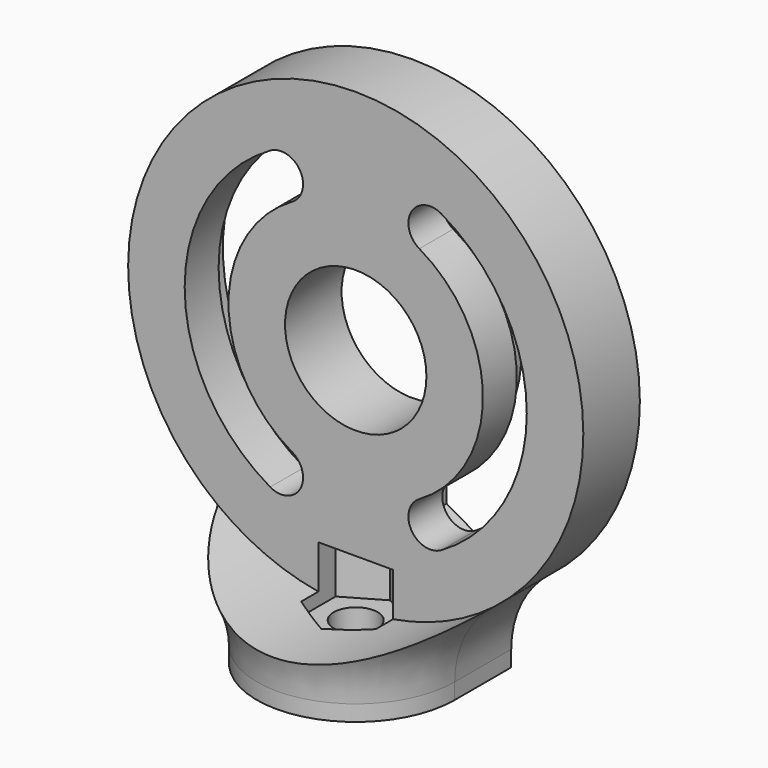
from build123d import *

# Parameters (mm, degrees)
SKETCH001_AS_DRAWN_R                 = 5
EXTRUDE001_DEPTH                     = 5
EXTRUDE001_ONTO_SKETCH001_ROLL_ANGLE = 90
FILLET_R                             = 7
POCKET_DEPTH                         = 2
REVOLVE_ANGLE                        = 180
REVOLVE_ONTO_SKETCH003_ROLL_ANGLE    = 90
POCKET001_DEPTH                      = 4
SKETCH005_R                          = 1.55
POCKET002_DEPTH                      = 2.693383
POCKET003_DEPTH                      = 9.758576


with BuildPart() as pocket:
    # Sketch001 as drawn → Extrude001 (new)
    with BuildSketch(Plane.XY):
        with BuildLine():
            Line((-7, 0), (7, 0))
            Line((7, 0), (7, 5))
            ThreePointArc((7, 5), (0, 35.598621), (-7, 5))
            Line((-7, 0), (-7, 5))
        make_face()
        with Locations((0, 19.498621)):
            Circle(SKETCH001_AS_DRAWN_R, mode=Mode.SUBTRACT)
        with BuildLine():
            ThreePointArc((-6.05, 29.977528), (-12.1, 19.498621), (-6.05, 9.019713))
            ThreePointArc((-6.05, 9.019713), (-3.932661, 9.587053), (-4.5, 11.704392))
            ThreePointArc((-4.5, 27.292849), (-9, 19.498621), (-4.5, 11.704392))
            ThreePointArc((-4.5, 27.292849), (-3.932661, 29.410189), (-6.05, 29.977528))
        make_face(mode=Mode.SUBTRACT)
        with BuildLine():
            ThreePointArc((4.5, 11.704392), (9, 19.498621), (4.5, 27.292849))
            ThreePointArc((6.05, 29.977528), (3.932661, 29.410189), (4.5, 27.292849))
            ThreePointArc((6.05, 9.019713), (12.1, 19.498621), (6.05, 29.977528))
            ThreePointArc((4.5, 11.704392), (3.932661, 9.587053), (6.05, 9.019713))
        make_face(mode=Mode.SUBTRACT)
    extrude(amount=-EXTRUDE001_DEPTH)


with BuildPart() as pocket_1:
    # Extrude001 onto Sketch001 roll: moved
    add(pocket.part.rotate(Axis((0, 0, 0), (1, 0, 0)), EXTRUDE001_ONTO_SKETCH001_ROLL_ANGLE))


with BuildPart() as pocket_2:
    # Extrude001 onto Sketch001 placement: moved
    add(pocket_1.part)

    # Fillet
    fillet_edges = [pocket_2.edges().sort_by_distance(p)[0] for p in [
        (7, 2.5, 5),
        (-7, 2.5, 5),
    ]]
    fillet(fillet_edges, radius=FILLET_R)

    # Sketch002 → Pocket (cut)
    with BuildSketch(Plane(origin=(0, 5, 0), x_dir=(-1, 0, 0), z_dir=(0, 1, 0))):
        with BuildLine():
            ThreePointArc((-3.85, 26.167016), (-7.7, 19.498621), (-3.85, 12.830225))
            Line((-3.85, 12.830225), (-2.425, 12.007501))
            Line((-2.425, 12.007501), (-2.425, 10.362053))
            Line((-2.425, 10.362053), (-2.425, 8.716604))
            Line((-2.425, 8.716604), (-3.85, 7.89388))
            Line((-3.85, 7.89388), (-5.275, 7.071156))
            Line((-5.275, 7.071156), (-6.7, 7.89388))
            ThreePointArc((-6.7, 31.103361), (-13.4, 19.498621), (-6.7, 7.89388))
            Line((-6.7, 31.103361), (-5.275, 31.926085))
            Line((-5.275, 31.926085), (-3.85, 31.103361))
            Line((-3.85, 31.103361), (-2.425, 30.280637))
            Line((-2.425, 30.280637), (-2.425, 28.635189))
            Line((-2.425, 28.635189), (-2.425, 26.98974))
            Line((-2.425, 26.98974), (-3.85, 26.167016))
        make_face()
        with BuildLine():
            ThreePointArc((3.85, 12.830225), (7.7, 19.498621), (3.85, 26.167016))
            Line((3.85, 26.167016), (2.424998, 26.989738))
            Line((2.424998, 26.989738), (2.425, 28.635187))
            Line((2.425, 28.635187), (2.425002, 30.280636))
            Line((2.425002, 30.280636), (3.850002, 31.103362))
            Line((3.850002, 31.103362), (5.275001, 31.926088))
            Line((5.275001, 31.926088), (6.7, 31.103361))
            ThreePointArc((6.7, 7.89388), (13.4, 19.498621), (6.7, 31.103361))
            Line((5.275, 7.071157), (6.7, 7.89388))
            Line((3.85, 7.89388), (5.275, 7.071157))
            Line((2.425, 8.716604), (3.85, 7.89388))
            Line((2.425, 10.362052), (2.425, 8.716604))
            Line((2.425, 12.0075), (2.425, 10.362052))
            Line((3.85, 12.830225), (2.425, 12.0075))
        make_face()
    extrude(amount=-POCKET_DEPTH, mode=Mode.SUBTRACT)


with BuildPart() as pocket003:
    # Sketch003 as drawn → Revolve (revolve)
    with BuildSketch(Plane.XY):
        with BuildLine():
            ThreePointArc((-7, 1.124454), (-7.727163, 4.231143), (-9.757576, 6.692383))
            Line((0, 6.692383), (-9.757576, 6.692383))
            Line((0, 0), (0, 6.692383))
            Line((-7, 0), (0, 0))
            Line((-7, 1.124454), (-7, 0))
        make_face()
    revolve(axis=Axis((0, 0, 0), (0, 1, 0)), revolution_arc=REVOLVE_ANGLE)


with BuildPart() as pocket003_1:
    # Revolve onto Sketch003 roll: moved
    add(pocket003.part.rotate(Axis((0, 0, 0), (1, 0, 0)), REVOLVE_ONTO_SKETCH003_ROLL_ANGLE))


with BuildPart() as pocket003_2:
    # Revolve onto Sketch003 placement: moved
    add(pocket003_1.part)

    # Fusion: union Pocket
    add(pocket_2.part)

    # Sketch004 → Pocket001 (cut)
    with BuildSketch(Plane.XY.offset(6.692383)):
        Polygon((2.641377, -1.525), (2.641377, 1.525), (0, 3.05), (-2.641377, 1.525), (-2.641377, -1.525), (0, -3.05), align=None)
    extrude(amount=-POCKET001_DEPTH, mode=Mode.SUBTRACT)

    # Sketch005 → Pocket002 (cut, through all)
    with BuildSketch(Plane.XY.offset(2.692383)):
        Circle(SKETCH005_R)
    extrude(amount=-POCKET002_DEPTH, mode=Mode.SUBTRACT)

    # Sketch006 → Pocket003 (cut, through all)
    with BuildSketch(Plane.XZ):
        with BuildLine():
            Line((-9.757576, 6.692383), (9.757576, 6.692383))
            ThreePointArc((-9.757576, 6.692383), (0, 3.398621), (9.757576, 6.692383))
        make_face()
    extrude(amount=POCKET003_DEPTH, mode=Mode.SUBTRACT)


solid = pocket003_2.part
